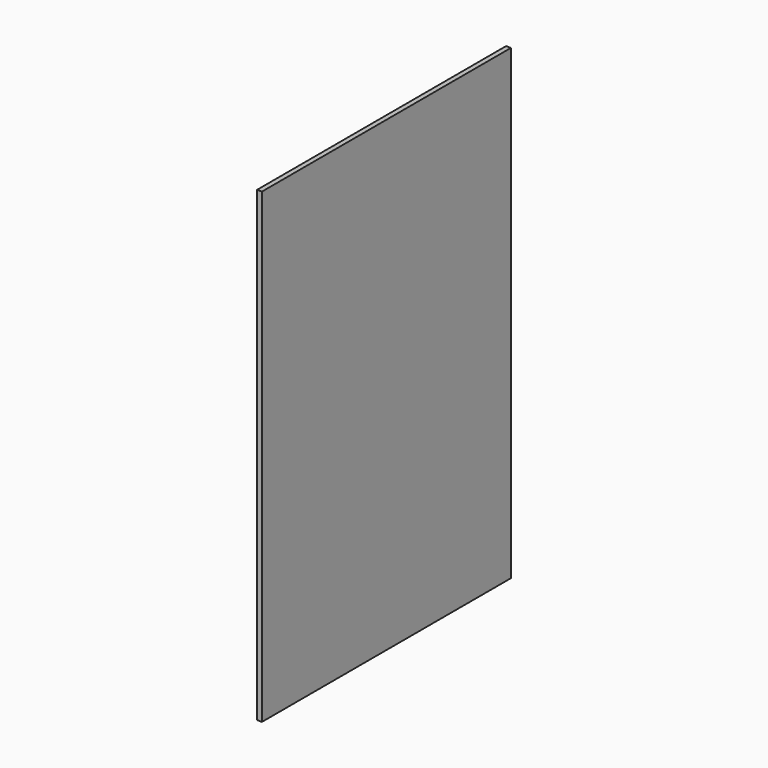
from build123d import *

# Parameters (mm, degrees)
F0_W     = 1219.2
F0_H     = 1219.2
F0_H_2   = 609.6
F1_DEPTH = 19.05


with BuildPart() as f1:
    # F0 (on Right) → F1 (new body)
    with BuildSketch(Plane.YZ):
        Rectangle(F0_W, F0_H)
        with Locations((0, -914.4)):
            Rectangle(F0_W, F0_H_2)
    extrude(amount=F1_DEPTH)


solid = f1.part
